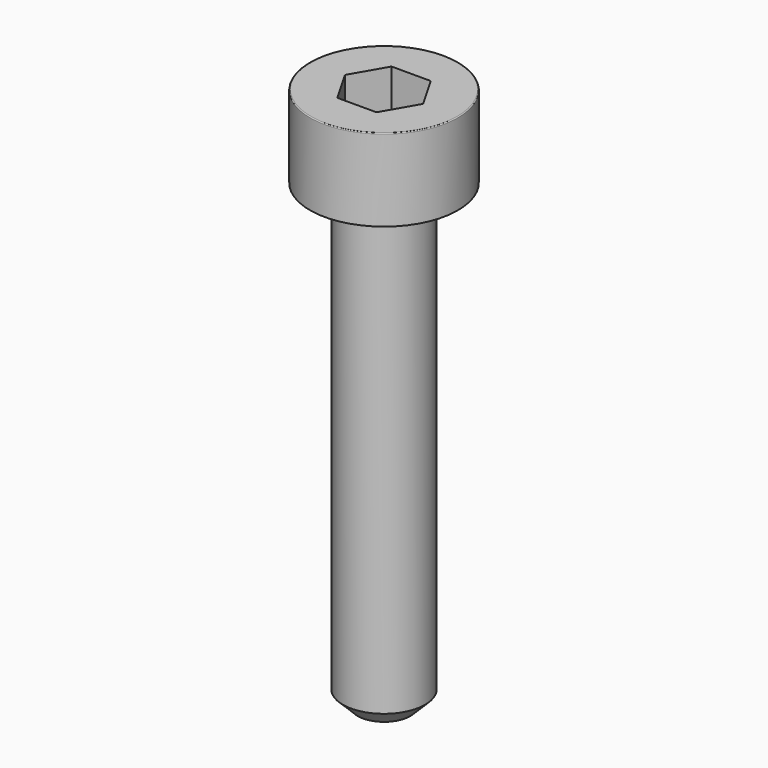
from build123d import *

# Parameters (mm, degrees)
POCKET_DEPTH = 2.06


with BuildPart() as part:
    # Sketch → Revolve (revolve)
    with BuildSketch(Plane.YZ):
        with BuildLine():
            Line((1.249, 0), (2.25, 0))
            Line((2.25, 0), (2.25, 2.47229))
            ThreePointArc((2.25, 2.47229), (2.241884, 2.491884), (2.22229, 2.5))
            Line((2.22229, 2.5), (0, 2.5))
            Line((0, -14), (0, 2.5))
            Line((0.8, -14), (0, -14))
            Line((1.25, -13.55), (0.8, -14))
            Line((1.25, -0.2), (1.25, -13.55))
            Line((1.249, 0), (1.25, -0.2))
        make_face()
    revolve(axis=Axis((0, 0, 0), (0, 0, 1)))

    # Sketch001 → Pocket (cut)
    with BuildSketch(Plane.XY.offset(2.5)):
        Polygon((1.189342, 0), (0.594671, 1.03), (-0.594671, 1.03), (-1.189342, 0), (-0.594671, -1.03), (0.594671, -1.03), align=None)
    extrude(amount=-POCKET_DEPTH, mode=Mode.SUBTRACT)


solid = part.part
